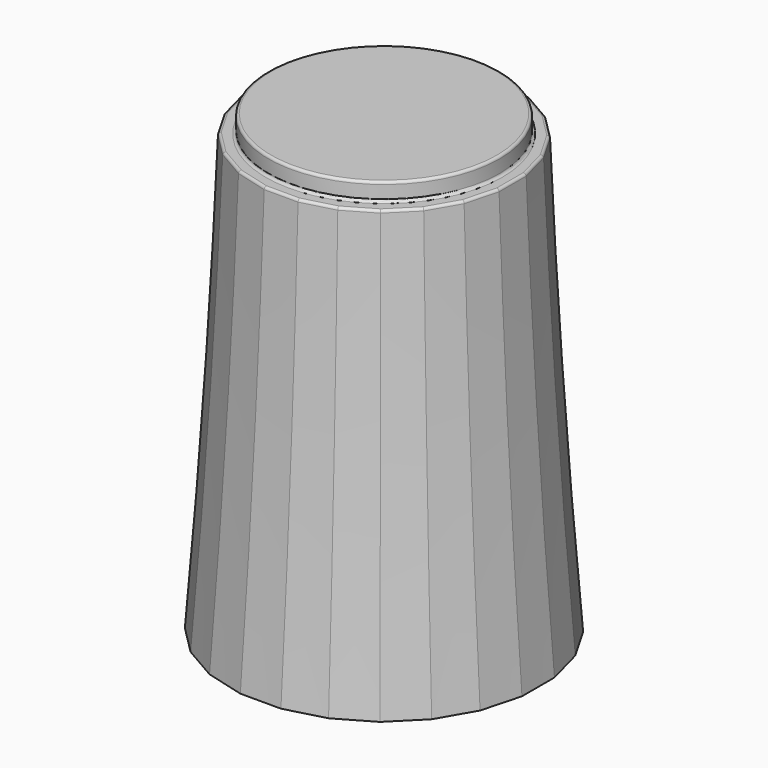
from build123d import *

# Parameters (mm, degrees)
SKETCH123_R     = 4.5
PAD030_DEPTH    = 0.7
SKETCH122_R     = 5
POCKET046_DEPTH = 1
SKETCH120_R     = 4.65
POCKET045_DEPTH = 1
POCKET047_DEPTH = 8
CHAMFER030_SIZE = 1.4
CHAMFER023_SIZE = 0.3
FILLET014_R     = 0.1


with BuildPart() as part:
    # Sketch125 → AdditiveLoft011 section 0
    with BuildSketch(Plane.XY):
        Polygon((-0.789915, 6), (-2.315914, 5.59111), (-3.684086, 4.801195), (-4.801195, 3.684086), (-5.59111, 2.315914), (-6, 0.789915), (-6, -0.789915), (-5.59111, -2.315914), (-4.801195, -3.684086), (-3.684086, -4.801195), (-2.315914, -5.59111), (-0.789915, -6), (0.789915, -6), (2.315914, -5.59111), (3.684086, -4.801195), (4.801195, -3.684086), (5.59111, -2.315914), (6, -0.789915), (6, 0.789915), (5.59111, 2.315914), (4.801195, 3.684086), (3.684086, 4.801195), (2.315914, 5.59111), (0.789915, 6), align=None)
    # Sketch124 → AdditiveLoft011 section 1
    with BuildSketch(Plane.XY.offset(7)):
        Polygon((-0.724089, 5.5), (-2.122921, 5.125184), (-3.377079, 4.401095), (-4.401095, 3.377079), (-5.125184, 2.122921), (-5.5, 0.724089), (-5.5, -0.724089), (-5.125184, -2.122921), (-4.401095, -3.377079), (-3.377079, -4.401095), (-2.122921, -5.125184), (-0.724089, -5.5), (0.724089, -5.5), (2.122921, -5.125184), (3.377079, -4.401095), (4.401095, -3.377079), (5.125184, -2.122921), (5.5, -0.724089), (5.5, 0.724089), (5.125184, 2.122921), (4.401095, 3.377079), (3.377079, 4.401095), (2.122921, 5.125184), (0.724089, 5.5), align=None)
    # Sketch126 → AdditiveLoft011 section 2
    with BuildSketch(Plane.XY.offset(17)):
        Polygon((-4.659258, 1.929928), (-5, 0.658262), (-5, -0.658262), (-4.659258, -1.929928), (-4.000996, -3.070072), (-3.070072, -4.000996), (-1.929928, -4.659258), (-0.658262, -5), (0.658262, -5), (1.929928, -4.659258), (3.070072, -4.000996), (4.000996, -3.070072), (4.659258, -1.929928), (5, -0.658262), (5, 0.658262), (4.659258, 1.929928), (4.000996, 3.070072), (3.070072, 4.000996), (1.929928, 4.659258), (0.658262, 5), (-0.658262, 5), (-1.929928, 4.659258), (-3.070072, 4.000996), (-4.000996, 3.070072), align=None)
    loft()

    # Sketch123 (on Face3 of AdditiveLoft011) → Pad030 (new body)
    with BuildSketch(Plane.XY.offset(17)):
        Circle(SKETCH123_R)
    extrude(amount=PAD030_DEPTH)

    # Sketch122 (on Face1 of Pad030) → Pocket046 (cut)
    with BuildSketch(Plane(origin=(0, 0, 0), x_dir=(1, 0, 0), z_dir=(0, 0, -1))):
        Circle(SKETCH122_R)
    extrude(amount=-POCKET046_DEPTH, mode=Mode.SUBTRACT)

    # Sketch120 (on Face28 of Pocket046) → Pocket045 (cut)
    with BuildSketch(Plane(origin=(0, 0, 1), x_dir=(1, 0, 0), z_dir=(0, 0, -1))):
        Circle(SKETCH120_R)
    extrude(amount=-POCKET045_DEPTH, mode=Mode.SUBTRACT)

    # Sketch121 (on Face32 of Pocket045) → Pocket047 (cut)
    with BuildSketch(Plane(origin=(0, 0, 2), x_dir=(1, 0, 0), z_dir=(0, 0, -1))):
        with BuildLine():
            ThreePointArc((-1.741757, 2.442598), (0, -3), (1.741757, 2.442598))
            Line((-1.741757, 2.442598), (1.741757, 2.442598))
        make_face()
    extrude(amount=-POCKET047_DEPTH, mode=Mode.SUBTRACT)

    # Chamfer030
    chamfer030_edges = [part.edges().sort_by_distance(p)[0] for p in [
        (0, 3, 2),
        (0, -2.442598, 2),
    ]]
    chamfer(chamfer030_edges, length=CHAMFER030_SIZE)

    # Chamfer023
    chamfer023_edges = [part.edges().sort_by_distance(p)[0] for p in [
        (-4.65, 0, 1),
    ]]
    chamfer(chamfer023_edges, length=CHAMFER023_SIZE)

    # Fillet014
    fillet014_edges = [part.edges().sort_by_distance(p)[0] for p in [
        (-4.5, 0, 17.7),
        (-4.829629, 1.294095, 17),
        (-4.330127, 2.5, 17),
        (-5, 0, 17),
        (-3.535534, 3.535534, 17),
        (-4.829629, -1.294095, 17),
        (-2.5, 4.330127, 17),
        (-4.330127, -2.5, 17),
        (-1.294095, 4.829629, 17),
        (-3.535534, -3.535534, 17),
        (0, 5, 17),
        (-2.5, -4.330127, 17),
        (1.294095, 4.829629, 17),
        (-1.294095, -4.829629, 17),
        (2.5, 4.330127, 17),
        (0, -5, 17),
        (3.535534, 3.535534, 17),
        (1.294095, -4.829629, 17),
        (4.330127, 2.5, 17),
        (2.5, -4.330127, 17),
        (4.829629, 1.294095, 17),
        (3.535534, -3.535534, 17),
        (5, 0, 17),
        (4.330127, -2.5, 17),
        (4.829629, -1.294095, 17),
        (-4.5, 0, 17),
    ]]
    fillet(fillet014_edges, radius=FILLET014_R)


solid = part.part
